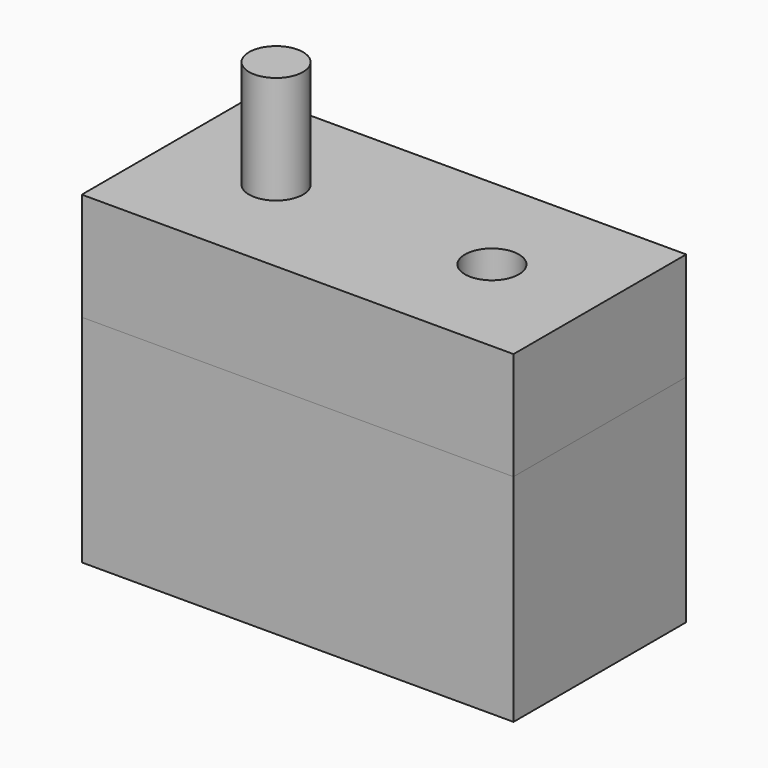
from build123d import *

# Parameters (mm, degrees)
F0_W     = 101.6
F0_H     = 50.8
F0_R     = 6.35
F1_DEPTH = 25.4
F2_DEPTH = 50.8
F3_R     = 6.35
F4_DEPTH = 101.6


with BuildPart() as f1:
    # F0 (on Top) → F1 (new body)
    with BuildSketch(Plane.XY):
        with Locations((50.8, 25.4)):
            Rectangle(F0_W, F0_H)
        with Locations((25.4, 25.4)):
            Circle(F0_R, mode=Mode.SUBTRACT)
        with Locations((76.2, 25.4)):
            Circle(F0_R, mode=Mode.SUBTRACT)
    extrude(amount=F1_DEPTH)


with BuildPart() as f2:
    # F0 (on Top) → F2 (new body)
    with BuildSketch(Plane.XY):
        with Locations((50.8, 25.4)):
            Rectangle(F0_W, F0_H)
        with Locations((25.4, 25.4)):
            Circle(F0_R, mode=Mode.SUBTRACT)
        with Locations((76.2, 25.4)):
            Circle(F0_R, mode=Mode.SUBTRACT)
    extrude(amount=-F2_DEPTH)


with BuildPart() as f4:
    # F3 (on face) → F4 (new body)
    with BuildSketch(Plane(origin=(0, 0, -50.8), x_dir=(1, 0, 0), z_dir=(0, 0, -1))):
        with Locations((25.4, -25.4)):
            Circle(F3_R)
    extrude(amount=-F4_DEPTH)


solid = Compound([f1.part, f2.part, f4.part])
